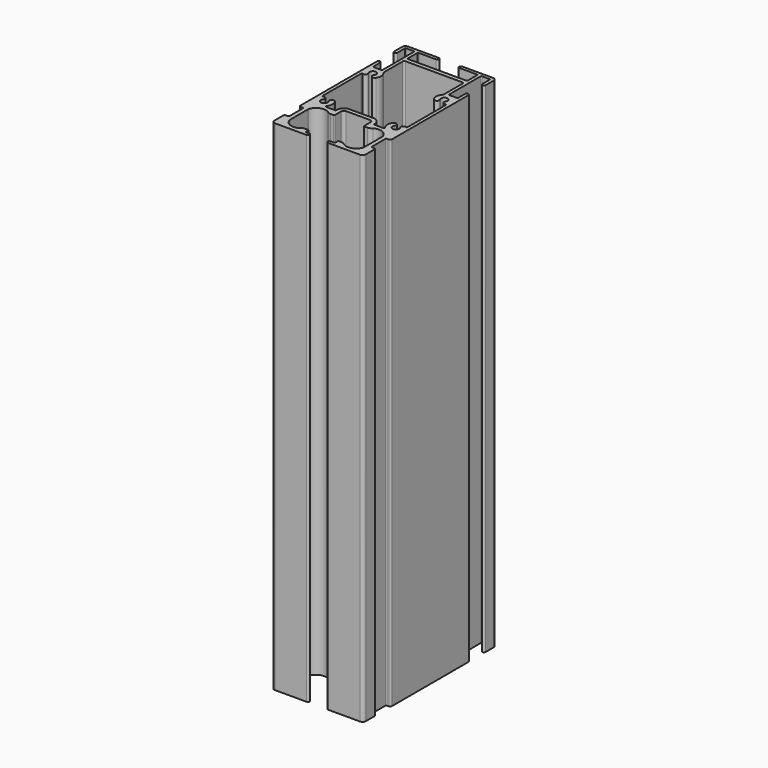
from build123d import *

# Parameters (mm, degrees)
F1_DEPTH = 150


with BuildPart() as f1:
    # F0 (on Top) → F1 (new body, symmetric)
    with BuildSketch(Plane.XY):
        with BuildLine():
            Line((8.337339, -48), (6.5, -48))
            ThreePointArc((6.5, -48), (5.5, -49), (6.5, -50))
            Line((6.5, -50), (25.5, -50))
            ThreePointArc((25.5, -50), (26.914214, -49.414214), (27.5, -48))
            Line((27.5, -48), (27.5, -41.5))
            ThreePointArc((27.5, -41.5), (27.207107, -40.792893), (26.5, -40.5))
            Line((26.5, -40.5), (25.309475, -40.5))
            ThreePointArc((25.309475, -40.5), (24.955922, -40.353553), (24.809475, -40))
            Line((24.809475, -40), (24.809475, -30))
            ThreePointArc((24.809475, -30), (24.955922, -29.646447), (25.309475, -29.5))
            Line((25.309475, -29.5), (26.5, -29.5))
            ThreePointArc((26.5, -29.5), (27.207107, -29.207107), (27.5, -28.5))
            Line((27.5, -28.5), (27.5, 29))
            ThreePointArc((27.5, 29), (26.5, 30), (25.5, 29))
            Line((25.5, 29), (25.5, 24))
            ThreePointArc((25.5, 24), (25.353553, 23.646447), (25, 23.5))
            Line((25, 23.5), (20.5, 23.5))
            ThreePointArc((20.5, 23.5), (20.146447, 23.646447), (20, 24))
            Line((20, 24), (20, 47.5))
            ThreePointArc((20, 47.5), (20.146447, 47.853553), (20.5, 48))
            Line((20.5, 48), (25, 48))
            ThreePointArc((25, 48), (25.353553, 47.853553), (25.5, 47.5))
            Line((25.5, 47.5), (25.5, 42))
            ThreePointArc((25.5, 42), (26.5, 41), (27.5, 42))
            Line((27.5, 42), (27.5, 48))
            ThreePointArc((27.5, 48), (26.914214, 49.414214), (25.5, 50))
            Line((25.5, 50), (7, 50))
            ThreePointArc((7, 50), (6, 49), (7, 48))
            Line((7, 48), (17.5, 48))
            ThreePointArc((17.5, 48), (17.853553, 47.853553), (18, 47.5))
            Line((18, 47.5), (18, 40.5))
            ThreePointArc((18, 40.5), (17.853553, 40.146447), (17.5, 40))
            Line((17.5, 40), (-17.5, 40))
            ThreePointArc((-17.5, 40), (-17.853553, 40.146447), (-18, 40.5))
            Line((-18, 40.5), (-18, 47.5))
            ThreePointArc((-18, 47.5), (-17.853553, 47.853553), (-17.5, 48))
            Line((-17.5, 48), (-7, 48))
            ThreePointArc((-7, 48), (-6, 49), (-7, 50))
            Line((-7, 50), (-25.5, 50))
            ThreePointArc((-25.5, 50), (-26.914214, 49.414214), (-27.5, 48))
            Line((-27.5, 48), (-27.5, 42))
            ThreePointArc((-27.5, 42), (-26.5, 41), (-25.5, 42))
            Line((-25.5, 42), (-25.5, 47.5))
            ThreePointArc((-25.5, 47.5), (-25.353553, 47.853553), (-25, 48))
            Line((-25, 48), (-20.5, 48))
            ThreePointArc((-20.5, 48), (-20.146447, 47.853553), (-20, 47.5))
            Line((-20, 47.5), (-20, 24))
            ThreePointArc((-20, 24), (-20.146447, 23.646447), (-20.5, 23.5))
            Line((-20.5, 23.5), (-25, 23.5))
            ThreePointArc((-25, 23.5), (-25.353553, 23.646447), (-25.5, 24))
            Line((-25.5, 24), (-25.5, 29))
            ThreePointArc((-25.5, 29), (-26.5, 30), (-27.5, 29))
            Line((-27.5, 29), (-27.5, -28.5))
            ThreePointArc((-27.5, -28.5), (-27.207107, -29.207107), (-26.5, -29.5))
            Line((-26.5, -29.5), (-25.309475, -29.5))
            ThreePointArc((-25.309475, -29.5), (-24.955922, -29.646447), (-24.809475, -30))
            Line((-24.809475, -30), (-24.809475, -40))
            ThreePointArc((-24.809475, -40), (-24.955922, -40.353553), (-25.309475, -40.5))
            Line((-25.309475, -40.5), (-26.5, -40.5))
            ThreePointArc((-26.5, -40.5), (-27.207107, -40.792893), (-27.5, -41.5))
            Line((-27.5, -41.5), (-27.5, -48))
            ThreePointArc((-27.5, -48), (-26.914214, -49.414214), (-25.5, -50))
            Line((-25.5, -50), (-6.5, -50))
            ThreePointArc((-6.5, -50), (-5.5, -49), (-6.5, -48))
            Line((-6.5, -48), (-8.337339, -48))
            ThreePointArc((-8.337339, -48), (-8.690892, -47.853553), (-8.837339, -47.5))
            Line((-8.837339, -47.5), (-8.837339, -46))
            ThreePointArc((-8.837339, -46), (-8.983786, -45.646447), (-9.337339, -45.5))
            Line((-9.337339, -45.5), (-11.809584, -45.5))
            ThreePointArc((-11.809584, -45.5), (-12.0057, -45.540067), (-12.170385, -45.653846))
            ThreePointArc((-12.170385, -45.653846), (-17.986464, -47.312953), (-22.292155, -43.06555))
            ThreePointArc((-22.292155, -43.06555), (-22.305126, -43.000891), (-22.309475, -42.935087))
            Line((-22.309475, -42.935087), (-22.309475, -29.064913))
            ThreePointArc((-22.309475, -29.064913), (-22.305126, -28.999109), (-22.292155, -28.93445))
            ThreePointArc((-22.292155, -28.93445), (-18.810548, -24.962729), (-13.538514, -25.281801))
            ThreePointArc((-13.538514, -25.281801), (-12.422143, -26.044464), (-11.097021, -26.312775))
            Line((-11.097021, -26.312775), (-9.337339, -26.312775))
            ThreePointArc((-9.337339, -26.312775), (-8.983786, -26.166328), (-8.837339, -25.812775))
            Line((-8.837339, -25.812775), (-8.837339, -21.1))
            ThreePointArc((-8.837339, -21.1), (-8.36871, -19.968629), (-7.237339, -19.5))
            Line((-7.237339, -19.5), (7.237339, -19.5))
            ThreePointArc((7.237339, -19.5), (8.36871, -19.968629), (8.837339, -21.1))
            Line((8.837339, -21.1), (8.837339, -25.812775))
            ThreePointArc((8.837339, -25.812775), (8.983786, -26.166328), (9.337339, -26.312775))
            Line((9.337339, -26.312775), (11.097021, -26.312775))
            ThreePointArc((11.097021, -26.312775), (12.422143, -26.044464), (13.538514, -25.281801))
            ThreePointArc((13.538514, -25.281801), (18.810548, -24.962729), (22.292155, -28.93445))
            ThreePointArc((22.292155, -28.93445), (22.305126, -28.999109), (22.309475, -29.064913))
            Line((22.309475, -29.064913), (22.309475, -42.935087))
            ThreePointArc((22.309475, -42.935087), (22.305126, -43.000891), (22.292155, -43.06555))
            ThreePointArc((22.292155, -43.06555), (17.986464, -47.312953), (12.170385, -45.653846))
            ThreePointArc((12.170385, -45.653846), (12.0057, -45.540067), (11.809584, -45.5))
            Line((11.809584, -45.5), (9.337339, -45.5))
            ThreePointArc((9.337339, -45.5), (8.983786, -45.646447), (8.837339, -46))
            Line((8.837339, -46), (8.837339, -47.5))
            ThreePointArc((8.837339, -47.5), (8.690892, -47.853553), (8.337339, -48))
        make_face()
        with BuildLine():
            Line((25.5, 14.609856), (25.5, -14.109856))
            ThreePointArc((25.5, -14.109856), (25.293702, -14.514503), (24.845044, -14.585239))
            ThreePointArc((24.845044, -14.585239), (23.177755, -15.114626), (23.145815, -16.86365))
            ThreePointArc((23.145815, -16.86365), (21.5, -20), (19.854185, -16.86365))
            ThreePointArc((19.854185, -16.86365), (19.472086, -14.777026), (17.385462, -15.159125))
            ThreePointArc((17.385462, -15.159125), (16.504567, -18.213656), (17.643054, -21.181818))
            ThreePointArc((17.643054, -21.181818), (17.709626, -21.713201), (17.257359, -22))
            Line((17.257359, -22), (11.837339, -22))
            ThreePointArc((11.837339, -22), (11.483786, -21.853553), (11.337339, -21.5))
            Line((11.337339, -21.5), (11.337339, -21.1))
            ThreePointArc((11.337339, -21.1), (10.136477, -18.200862), (7.237339, -17))
            Line((7.237339, -17), (-7.237339, -17))
            ThreePointArc((-7.237339, -17), (-10.136477, -18.200862), (-11.337339, -21.1))
            Line((-11.337339, -21.1), (-11.337339, -21.5))
            ThreePointArc((-11.337339, -21.5), (-11.483786, -21.853553), (-11.837339, -22))
            Line((-11.837339, -22), (-17.257359, -22))
            ThreePointArc((-17.257359, -22), (-17.709626, -21.713201), (-17.643054, -21.181818))
            ThreePointArc((-17.643054, -21.181818), (-16.504567, -18.213656), (-17.385462, -15.159125))
            ThreePointArc((-17.385462, -15.159125), (-19.472086, -14.777026), (-19.854185, -16.86365))
            ThreePointArc((-19.854185, -16.86365), (-21.5, -20), (-23.145815, -16.86365))
            ThreePointArc((-23.145815, -16.86365), (-23.177755, -15.114626), (-24.845044, -14.585239))
            ThreePointArc((-24.845044, -14.585239), (-25.293702, -14.514503), (-25.5, -14.109856))
            Line((-25.5, -14.109856), (-25.5, 14.609856))
            ThreePointArc((-25.5, 14.609856), (-25.293702, 15.014503), (-24.845044, 15.085239))
            ThreePointArc((-24.845044, 15.085239), (-23.177755, 15.614626), (-23.145815, 17.36365))
            ThreePointArc((-23.145815, 17.36365), (-21.5, 20.5), (-19.854185, 17.36365))
            ThreePointArc((-19.854185, 17.36365), (-19.472086, 15.277026), (-17.385462, 15.659125))
            ThreePointArc((-17.385462, 15.659125), (-16.514462, 18.880016), (-17.863579, 21.931682))
            ThreePointArc((-17.863579, 21.931682), (-17.964645, 22.09029), (-18, 22.275009))
            Line((-18, 22.275009), (-18, 36.5))
            ThreePointArc((-18, 36.5), (-17.707107, 37.207107), (-17, 37.5))
            Line((-17, 37.5), (17, 37.5))
            ThreePointArc((17, 37.5), (17.707107, 37.207107), (18, 36.5))
            Line((18, 36.5), (18, 22.275009))
            ThreePointArc((18, 22.275009), (17.964645, 22.09029), (17.863579, 21.931682))
            ThreePointArc((17.863579, 21.931682), (16.514462, 18.880016), (17.385462, 15.659125))
            ThreePointArc((17.385462, 15.659125), (19.472086, 15.277026), (19.854185, 17.36365))
            ThreePointArc((19.854185, 17.36365), (21.5, 20.5), (23.145815, 17.36365))
            ThreePointArc((23.145815, 17.36365), (23.177755, 15.614626), (24.845044, 15.085239))
            ThreePointArc((24.845044, 15.085239), (25.293702, 15.014503), (25.5, 14.609856))
        make_face(mode=Mode.SUBTRACT)
    extrude(amount=F1_DEPTH, both=True)


solid = f1.part
